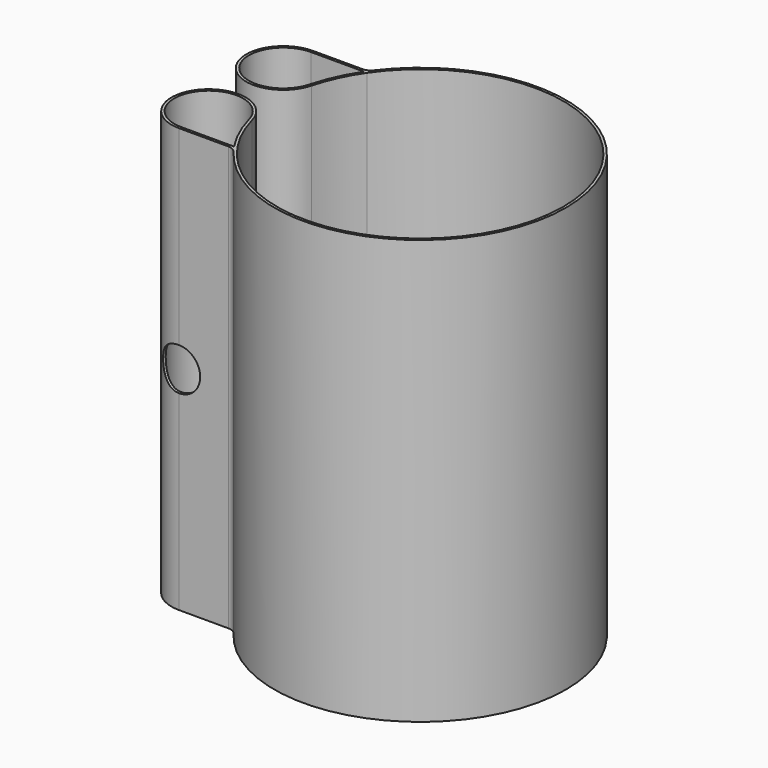
from build123d import *

# Parameters (mm, degrees)
F1_DEPTH = 40
F2_R     = 1
F3_R     = 2
F4_DEPTH = 25


with BuildPart() as f1:
    # F0 (on Top) → F1 (new body)
    with BuildSketch(Plane.XY):
        with BuildLine():
            ThreePointArc((-11.123339, 7.649924), (13.304653, -2.288275), (-13.039999, -3.494057))
            ThreePointArc((-13.039999, -3.494057), (-19.197476, -2.269259), (-16.420739, -7.899924))
            Line((-16.420739, -7.899924), (-11.254053, -7.899924))
            ThreePointArc((-11.254053, -7.899924), (13.75, 0), (-11.254053, 7.899924))
            ThreePointArc((-11.254053, 7.899924), (-11.340446, 7.775396), (-11.425461, 7.649924))
            Line((-11.425461, 7.649924), (-11.123339, 7.649924))
        make_face()
        with BuildLine():
            ThreePointArc((-16.420739, -7.649924), (-18.999137, -2.421449), (-13.28148, -3.558762))
            ThreePointArc((-13.28148, -3.558762), (-12.521687, -5.680657), (-11.425461, -7.649924))
            Line((-11.425461, -7.649924), (-15.121701, -7.649924))
            Line((-15.121701, -7.649924), (-16.420739, -7.649924))
        make_face(mode=Mode.SUBTRACT)
        with BuildLine():
            ThreePointArc((-13.039999, 3.494057), (-12.259059, 5.653802), (-11.123339, 7.649924))
            Line((-11.123339, 7.649924), (-11.425461, 7.649924))
            ThreePointArc((-11.425461, 7.649924), (-11.340446, 7.775396), (-11.254053, 7.899924))
            Line((-11.254053, 7.899924), (-16.420739, 7.899924))
            ThreePointArc((-16.420739, 7.899924), (-19.197476, 2.269259), (-13.039999, 3.494057))
        make_face()
        with BuildLine():
            Line((-15.121701, 7.649924), (-11.425461, 7.649924))
            ThreePointArc((-11.425461, 7.649924), (-12.521687, 5.680657), (-13.28148, 3.558762))
            ThreePointArc((-13.28148, 3.558762), (-18.999137, 2.421449), (-16.420739, 7.649924))
            Line((-16.420739, 7.649924), (-15.121701, 7.649924))
        make_face(mode=Mode.SUBTRACT)
    extrude(amount=F1_DEPTH)

    # F2
    f2_edges = [f1.edges().sort_by_distance(p)[0] for p in [
        (-11.254053, 7.899924, 20),
        (-11.254053, -7.899924, 20),
    ]]
    fillet(f2_edges, radius=F2_R)

    # F3 (on face) → F4 (cut)
    with BuildSketch(Plane(origin=(0, 7.899924, 0), x_dir=(-1, 0, 0), z_dir=(0, 1, 0))):
        with Locations((16.420739, 20)):
            Circle(F3_R)
    extrude(amount=-F4_DEPTH, mode=Mode.SUBTRACT)


solid = f1.part
